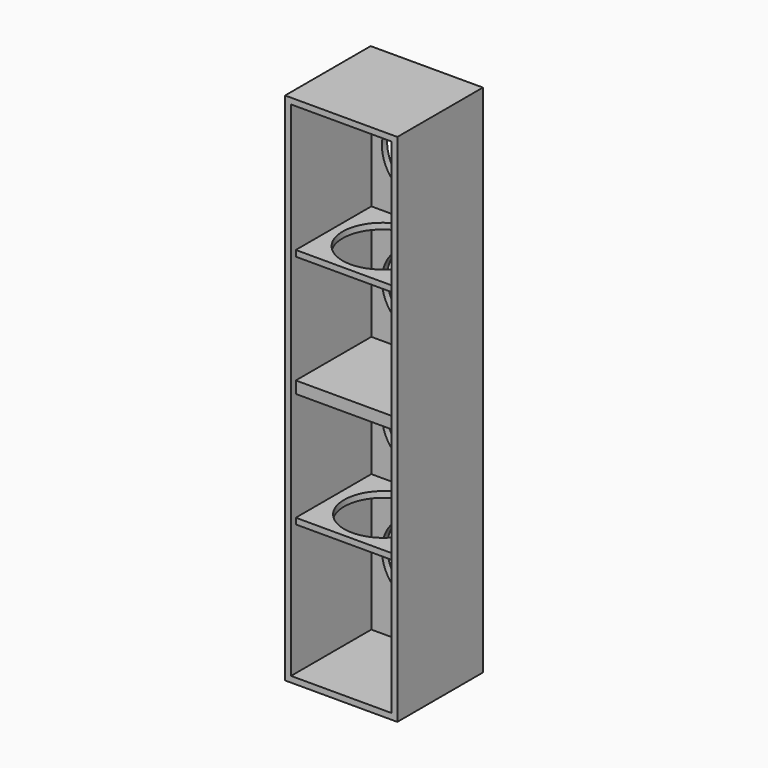
from build123d import *

# Parameters (mm, degrees)
F0_W     = 340
F0_H     = 1560
F0_R     = 120
F1_DEPTH = 20
F2_W     = 304
F2_H     = 18
F3_DEPTH = 304
F4_DEPTH = 286
F5_R     = 120
F6_DEPTH = 18
F8_DEPTH = 18
F7_R     = 120
F9_DEPTH = 18


with BuildPart() as f1:
    # F0 (on Front) → F1 (new body)
    with BuildSketch(Plane.XZ):
        with Locations((4.462467, -0.60629)):
            Rectangle(F0_W, F0_H)
        with Locations((4.462467, -540.60629)):
            Circle(F0_R, mode=Mode.SUBTRACT)
        with Locations((4.462467, -180.60629)):
            Circle(F0_R, mode=Mode.SUBTRACT)
        with Locations((4.462467, 179.39371)):
            Circle(F0_R, mode=Mode.SUBTRACT)
        with Locations((4.462467, 539.39371)):
            Circle(F0_R, mode=Mode.SUBTRACT)
    extrude(amount=F1_DEPTH)

    # F2 (on face) → F3 (join)
    with BuildSketch(Plane.XZ.offset(20)):
        Polygon((-165.537533, 779.39371), (-165.537533, -780.60629), (-147.537533, -780.60629), (-147.537533, -762.60629), (-147.537533, -366), (-147.537533, -348), (-147.537533, -18), (-147.537533, 0), (-147.537533, 18), (-147.537533, 348), (-147.537533, 366), (-147.537533, 761.39371), (-147.537533, 779.39371), align=None)
        with Locations((4.462467, 770.39371)):
            Rectangle(F2_W, F2_H)
        Polygon((156.462467, -762.60629), (156.462467, -780.60629), (174.462467, -780.60629), (174.462467, 779.39371), (156.462467, 779.39371), (156.462467, 761.39371), (156.462467, 366), (156.462467, 348), (156.462467, 18), (156.462467, 0), (156.462467, -18), (156.462467, -348), (156.462467, -366), align=None)
        with Locations((4.462467, -771.60629)):
            Rectangle(F2_W, F2_H)
    extrude(amount=F3_DEPTH)

    # F2 (on face) → F4 (join)
    with BuildSketch(Plane.XZ.offset(20)):
        with Locations((4.462467, -357)):
            Rectangle(F2_W, F2_H)
        with Locations((4.462467, 9)):
            Rectangle(F2_W, F2_H)
        with Locations((4.462467, -9)):
            Rectangle(F2_W, F2_H)
        with Locations((4.462467, 357)):
            Rectangle(F2_W, F2_H)
    extrude(amount=F4_DEPTH)

    # F5 (on face) → F6 (cut)
    with BuildSketch(Plane.XY.offset(366)):
        with Locations((0, -163)):
            Circle(F5_R)
    extrude(amount=-F6_DEPTH, mode=Mode.SUBTRACT)

    # F5 (on face) → F8 (cut)
    with BuildSketch(Plane.XY.offset(366)):
        with Locations((0, -163)):
            Circle(F5_R)
    extrude(amount=-F8_DEPTH, mode=Mode.SUBTRACT)

    # F7 (on face) → F9 (cut)
    with BuildSketch(Plane.XY.offset(-348)):
        with Locations((4.462467, -163)):
            Circle(F7_R)
    extrude(amount=-F9_DEPTH, mode=Mode.SUBTRACT)


solid = f1.part
